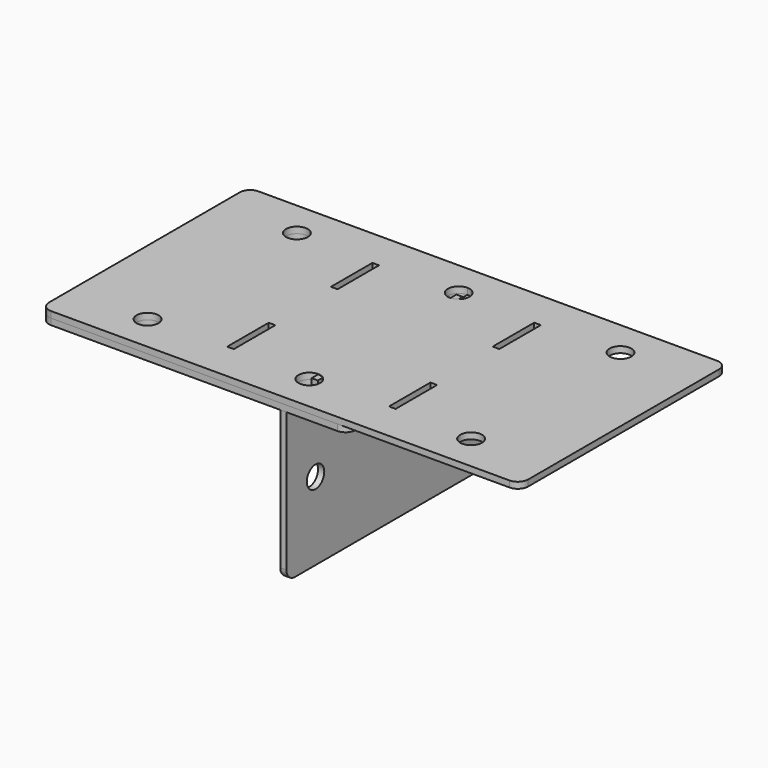
from build123d import *

# Parameters (mm, degrees)
F0_R     = 5.25
F1_DEPTH = 3
F2_W     = 3.2
F2_H     = 25
F3_DEPTH = 25
F4_R     = 5
F5_R     = 5.25
F6_DEPTH = 3
F7_R     = 5
F8_R     = 5.25
F8_W     = 3.2
F8_H     = 25
F9_DEPTH = 3


with BuildPart() as f1:
    # F0 (on Top) → F1 (new body)
    with BuildSketch(Plane.XY):
        with BuildLine():
            Line((0, 0), (-115.5, 0))
            Line((-115.5, 0), (-115.5, -62.5))
            Line((-115.5, -62.5), (0, -62.5))
            Line((0, -62.5), (0, -50.25))
            ThreePointArc((0, -50.25), (-5.25, -45), (0, -39.75))
            Line((0, -39.75), (0, 0))
        make_face()
        with Locations((-78, -45)):
            Circle(F0_R, mode=Mode.SUBTRACT)
        with BuildLine():
            Line((115.5, 0), (0, 0))
            Line((0, 0), (0, -39.75))
            ThreePointArc((0, -39.75), (3.712311, -41.287689), (5.25, -45))
            ThreePointArc((5.25, -45), (3.712311, -48.712311), (0, -50.25))
            Line((0, -50.25), (0, -62.5))
            Line((0, -62.5), (115.5, -62.5))
            Line((115.5, -62.5), (115.5, 0))
        make_face()
        with Locations((78, -45)):
            Circle(F0_R, mode=Mode.SUBTRACT)
        with BuildLine():
            Line((115.5, 62.5), (0, 62.5))
            Line((0, 62.5), (0, 50.25))
            ThreePointArc((0, 50.25), (3.712311, 48.712311), (5.25, 45))
            ThreePointArc((5.25, 45), (3.712311, 41.287689), (0, 39.75))
            Line((0, 39.75), (0, 0))
            Line((0, 0), (115.5, 0))
            Line((115.5, 0), (115.5, 62.5))
        make_face()
        with Locations((78, 45)):
            Circle(F0_R, mode=Mode.SUBTRACT)
        with BuildLine():
            Line((0, 62.5), (-115.5, 62.5))
            Line((-115.5, 62.5), (-115.5, 0))
            Line((-115.5, 0), (0, 0))
            Line((0, 0), (0, 39.75))
            ThreePointArc((0, 39.75), (-5.25, 45), (0, 50.25))
            Line((0, 50.25), (0, 62.5))
        make_face()
        with Locations((-78, 45)):
            Circle(F0_R, mode=Mode.SUBTRACT)
    extrude(amount=F1_DEPTH)

    # F2 (on face) → F3 (cut)
    with BuildSketch(Plane.XY.offset(3)):
        with Locations((39, 31.25)):
            Rectangle(F2_W, F2_H)
        with Locations((-39, 31.25)):
            Rectangle(F2_W, F2_H)
        with Locations((39, -31.25)):
            Rectangle(F2_W, F2_H)
        with Locations((-39, -31.25)):
            Rectangle(F2_W, F2_H)
    extrude(amount=-F3_DEPTH, mode=Mode.SUBTRACT)

    # F4
    f4_edges = [f1.edges().sort_by_distance(p)[0] for p in [
        (115.5, 62.5, 1.5),
        (115.5, -62.5, 1.5),
        (-115.5, 62.5, 1.5),
        (-115.5, -62.5, 1.5),
    ]]
    fillet(f4_edges, radius=F4_R)


with BuildPart() as f6:
    # F5 (on Right) → F6 (new body)
    with BuildSketch(Plane.YZ):
        Polygon((62.5, -75), (62.5, 0), (43.65, 0), (43.65, 2.8), (18.85, 2.8), (18.85, 0), (-18.85, 0), (-18.85, 2.8), (-43.65, 2.8), (-43.65, 0), (-62.5, 0), (-62.5, -75), align=None)
        with Locations((-45, -37.5)):
            Circle(F5_R, mode=Mode.SUBTRACT)
        with BuildLine():
            ThreePointArc((39.75, -37.5), (45, -32.25), (50.25, -37.5))
            ThreePointArc((50.25, -37.5), (45, -42.75), (39.75, -37.5))
        make_face(mode=Mode.SUBTRACT)
    extrude(amount=F6_DEPTH)

    # F7
    f7_edges = [f6.edges().sort_by_distance(p)[0] for p in [
        (1.5, 62.5, -75),
        (1.5, -62.5, -75),
    ]]
    fillet(f7_edges, radius=F7_R)


with BuildPart() as f9:
    # F8 (on Top) → F9 (new body)
    with BuildSketch(Plane.XY):
        with BuildLine():
            Line((27.5, 62.5), (-110.5, 62.5))
            ThreePointArc((-110.5, 62.5), (-114.035534, 61.035534), (-115.5, 57.5))
            Line((-115.5, 57.5), (-115.5, -57.5))
            ThreePointArc((-115.5, -57.5), (-114.035534, -61.035534), (-110.5, -62.5))
            Line((-110.5, -62.5), (27.5, -62.5))
            ThreePointArc((27.5, -62.5), (31.035534, -61.035534), (32.5, -57.5))
            Line((32.5, -57.5), (32.5, 0))
            Line((32.5, 0), (32.5, 57.5))
            ThreePointArc((32.5, 57.5), (31.035534, 61.035534), (27.5, 62.5))
        make_face()
        with Locations((-78, -45)):
            Circle(F8_R, mode=Mode.SUBTRACT)
        with Locations((0, -45)):
            Circle(F8_R, mode=Mode.SUBTRACT)
        with Locations((-39, -31.25)):
            Rectangle(F8_W, F8_H, mode=Mode.SUBTRACT)
        with Locations((-78, 45)):
            Circle(F8_R, mode=Mode.SUBTRACT)
        with Locations((-39, 31.25)):
            Rectangle(F8_W, F8_H, mode=Mode.SUBTRACT)
        with Locations((0, 45)):
            Circle(F8_R, mode=Mode.SUBTRACT)
    extrude(amount=-F9_DEPTH)


solid = Compound([f1.part, f6.part, f9.part])
